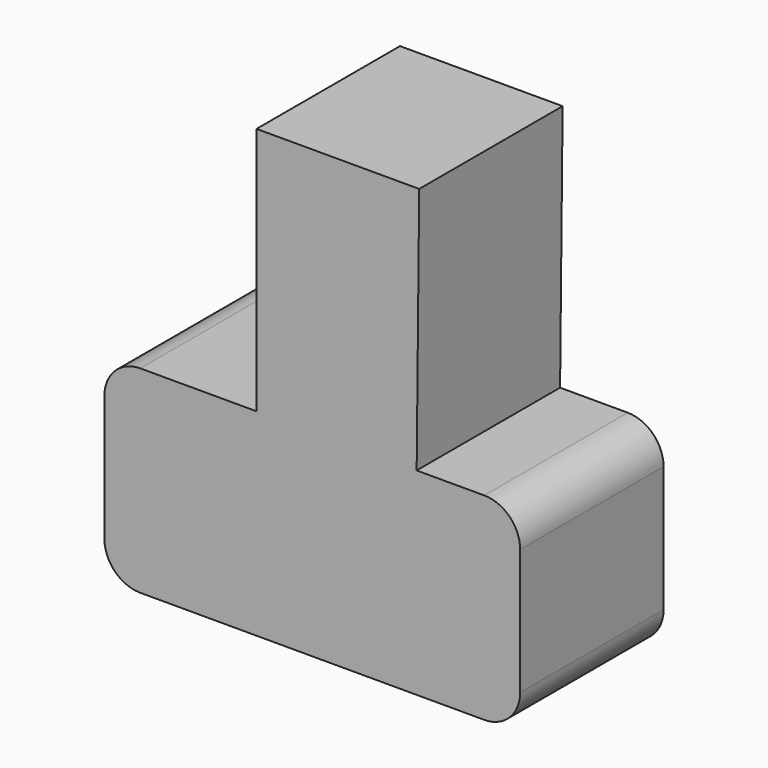
from build123d import *

# Parameters (mm, degrees)
F1_DEPTH = 30


with BuildPart() as f1:
    # F0 (on Front) → F1 (new body)
    with BuildSketch(Plane.XZ):
        with BuildLine():
            ThreePointArc((-20.739965, -11.7278), (-18.982606, -15.97044), (-14.739965, -17.7278))
            Line((-14.739965, -17.7278), (42.831739, -17.7278))
            ThreePointArc((42.831739, -17.7278), (47.074379, -15.97044), (48.831739, -11.7278))
            Line((48.831739, -11.7278), (48.831739, 9.334895))
            ThreePointArc((48.831739, 9.334895), (47.074379, 13.577536), (42.831739, 15.334895))
            Line((42.831739, 15.334895), (31.511895, 15.334895))
            Line((31.511895, 15.334895), (4.720941, 15.334895))
            Line((4.720941, 15.334895), (-14.739965, 15.334895))
            ThreePointArc((-14.739965, 15.334895), (-18.982606, 13.577536), (-20.739965, 9.334895))
            Line((-20.739965, 9.334895), (-20.739965, -11.7278))
        make_face()
        Polygon((4.720941, 56.946293), (4.720941, 15.334895), (31.511895, 15.334895), (31.935759, 56.946293), align=None)
    extrude(amount=F1_DEPTH)


solid = f1.part
